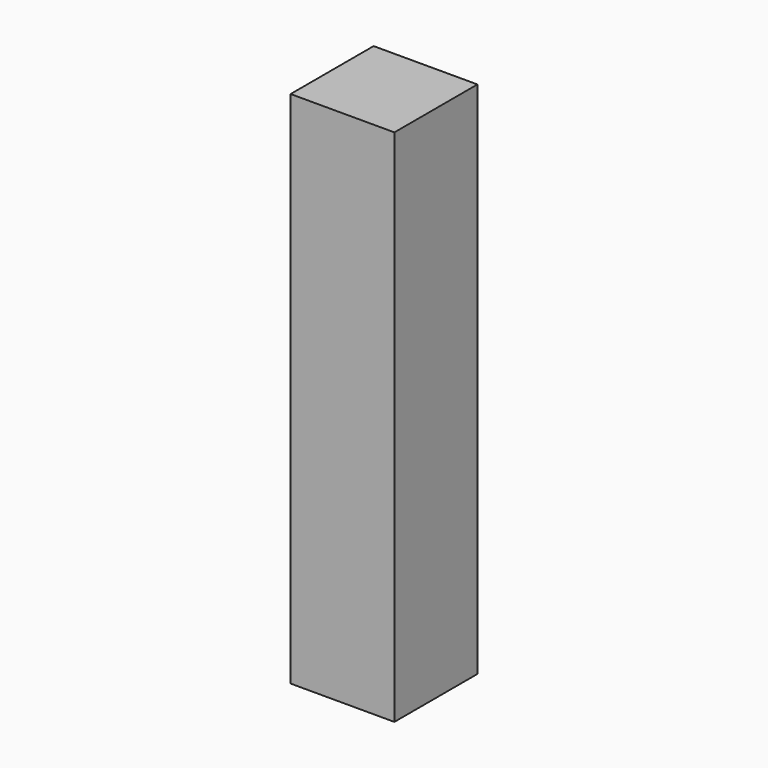
from build123d import *

# Parameters (mm, degrees)
SKETCH_W  = 5
SKETCH_H  = 5
PAD_DEPTH = 25


with BuildPart() as part:
    # Sketch → Pad (new body)
    with BuildSketch(Plane.XY):
        Rectangle(SKETCH_W, SKETCH_H)
    extrude(amount=PAD_DEPTH)


solid = part.part
